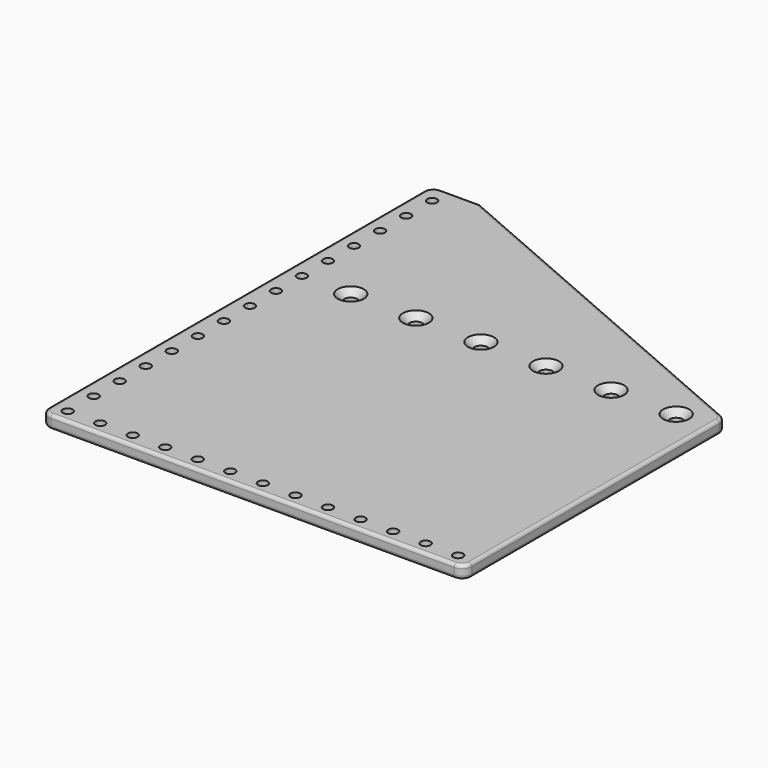
from build123d import *

# Parameters (mm, degrees)
SKETCH001_R             = 1.5
SKETCH001_R_2           = 2
PAD001_DEPTH            = 4
CHAMFER001_SIZE         = 2
FILLET002_R             = 3
FILLET003_R             = 1
BODY001_PLACEMENT_ANGLE = 180


with BuildPart() as part:
    # Sketch001 → Pad001 (new body)
    with BuildSketch(Plane.XY):
        Polygon((0, 0), (130, 0), (130, 150), (115, 150), (0, 100), align=None)
        with Locations((5, 4)):
            Circle(SKETCH001_R, mode=Mode.SUBTRACT)
        with Locations((15, 4)):
            Circle(SKETCH001_R, mode=Mode.SUBTRACT)
        with Locations((25, 4)):
            Circle(SKETCH001_R, mode=Mode.SUBTRACT)
        with Locations((35, 4)):
            Circle(SKETCH001_R, mode=Mode.SUBTRACT)
        with Locations((45, 4)):
            Circle(SKETCH001_R, mode=Mode.SUBTRACT)
        with Locations((55, 4)):
            Circle(SKETCH001_R, mode=Mode.SUBTRACT)
        with Locations((65, 4)):
            Circle(SKETCH001_R, mode=Mode.SUBTRACT)
        with Locations((75, 4)):
            Circle(SKETCH001_R, mode=Mode.SUBTRACT)
        with Locations((85, 4)):
            Circle(SKETCH001_R, mode=Mode.SUBTRACT)
        with Locations((95, 4)):
            Circle(SKETCH001_R, mode=Mode.SUBTRACT)
        with Locations((105, 4)):
            Circle(SKETCH001_R, mode=Mode.SUBTRACT)
        with Locations((115, 4)):
            Circle(SKETCH001_R, mode=Mode.SUBTRACT)
        with Locations((125, 4)):
            Circle(SKETCH001_R, mode=Mode.SUBTRACT)
        with Locations((125, 14)):
            Circle(SKETCH001_R, mode=Mode.SUBTRACT)
        with Locations((125, 24)):
            Circle(SKETCH001_R, mode=Mode.SUBTRACT)
        with Locations((125, 34)):
            Circle(SKETCH001_R, mode=Mode.SUBTRACT)
        with Locations((125, 44)):
            Circle(SKETCH001_R, mode=Mode.SUBTRACT)
        with Locations((125, 54)):
            Circle(SKETCH001_R, mode=Mode.SUBTRACT)
        with Locations((125, 64)):
            Circle(SKETCH001_R, mode=Mode.SUBTRACT)
        with Locations((125, 74)):
            Circle(SKETCH001_R, mode=Mode.SUBTRACT)
        with Locations((125, 84)):
            Circle(SKETCH001_R, mode=Mode.SUBTRACT)
        with Locations((125, 94)):
            Circle(SKETCH001_R, mode=Mode.SUBTRACT)
        with Locations((125, 104)):
            Circle(SKETCH001_R, mode=Mode.SUBTRACT)
        with Locations((125, 114)):
            Circle(SKETCH001_R, mode=Mode.SUBTRACT)
        with Locations((125, 124)):
            Circle(SKETCH001_R, mode=Mode.SUBTRACT)
        with Locations((125, 134)):
            Circle(SKETCH001_R, mode=Mode.SUBTRACT)
        with Locations((125, 144)):
            Circle(SKETCH001_R, mode=Mode.SUBTRACT)
        with Locations((10, 94)):
            Circle(SKETCH001_R_2, mode=Mode.SUBTRACT)
        with Locations((30, 94)):
            Circle(SKETCH001_R_2, mode=Mode.SUBTRACT)
        with Locations((50, 94)):
            Circle(SKETCH001_R_2, mode=Mode.SUBTRACT)
        with Locations((70, 94)):
            Circle(SKETCH001_R_2, mode=Mode.SUBTRACT)
        with Locations((90, 94)):
            Circle(SKETCH001_R_2, mode=Mode.SUBTRACT)
        with Locations((110, 94)):
            Circle(SKETCH001_R_2, mode=Mode.SUBTRACT)
    extrude(amount=PAD001_DEPTH)

    # Chamfer001
    chamfer001_edges = [part.edges().sort_by_distance(p)[0] for p in [
        (108, 94, 0),
        (88, 94, 0),
        (68, 94, 0),
        (48, 94, 0),
        (28, 94, 0),
        (8, 94, 0),
    ]]
    chamfer(chamfer001_edges, length=CHAMFER001_SIZE)

    # Fillet002
    fillet002_edges = [part.edges().sort_by_distance(p)[0] for p in [
        (130, 150, 2),
        (0, 100, 2),
        (130, 0, 2),
        (0, 0, 2),
    ]]
    fillet(fillet002_edges, radius=FILLET002_R)

    # Fillet003
    fillet003_edges = [part.edges().sort_by_distance(p)[0] for p in [
        (65, 0, 0),
        (3, 0, 2),
        (127, 0, 2),
        (65, 0, 4),
    ]]
    fillet(fillet003_edges, radius=FILLET003_R)


with BuildPart() as part_1:
    # Body001 placement: moved
    add(part.part.moved(Location((-34, 0, 4))).rotate(Axis((-34, 0, 4), (0, 1, 0)), BODY001_PLACEMENT_ANGLE))


solid = part_1.part
